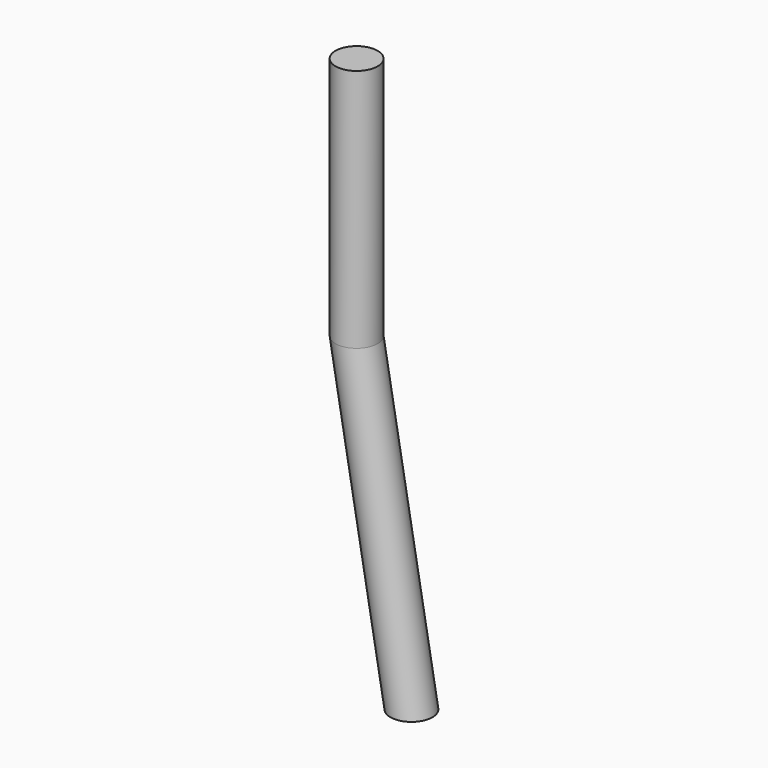
from build123d import *

# Parameters (mm, degrees)
F0_R      = 100
F2_DEPTH  = 1160
F2_FACE_R = 100


with BuildPart() as f2:
    # F0 (on Top) → F2 (new body)
    with BuildSketch(Plane.XY):
        Circle(F0_R)
    extrude(amount=-F2_DEPTH)

    # F3: sweep along a path in F1
    with BuildLine(Plane.XZ) as f3_path:
        Line((0, -1160), (260.472267, -2637.21163))
    # F2_face (on face) → F3 (sweep)
    with BuildSketch(Plane(origin=(0, 0, -1160), x_dir=(1, 0, 0), z_dir=(0, 0, -1))):
        Circle(F2_FACE_R)
    sweep(path=f3_path.line)


solid = f2.part
